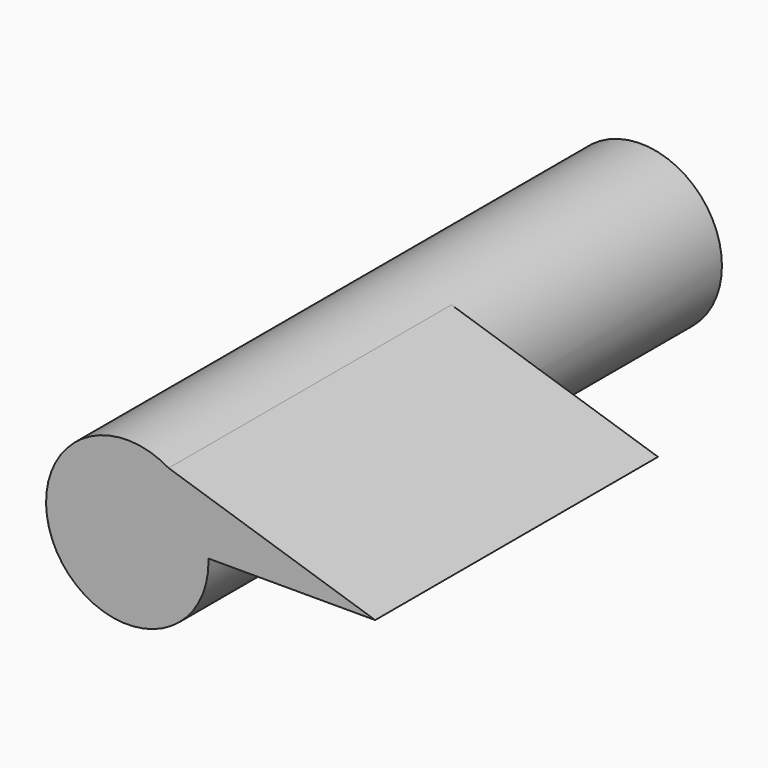
from build123d import *

# Parameters (mm, degrees)
F0_R     = 14.8676194835
F1_DEPTH = 63.81162256
F2_DEPTH = 53.6982640624
F4_DEPTH = 64.7173374891


with BuildPart() as f1:
    # F0 (on Front) → F1 (new body)
    with BuildSketch(Plane.XZ):
        with Locations((-0.3426838666, -0.586660404)):
            Circle(F0_R)
    extrude(amount=F1_DEPTH)

    # F2 (add): a face of the model
    f2_faces = [f1.faces().sort_by_distance(p)[0] for p in [
        (-0.3426838666, 0, -0.586660404),
    ]]
    extrude(f2_faces, amount=F2_DEPTH)

    # F3 (on face) → F4 (join)
    with BuildSketch(Plane.XZ.offset(63.81162256)):
        with BuildLine():
            ThreePointArc((7.2291272221, 12.2084084096), (12.4249878258, 7.0312572026), (14.5133566111, 0))
            Line((14.5133566111, 0), (45.0522339435, 0))
            Line((45.0522339435, 0), (7.2291272221, 12.2084084096))
        make_face()
    extrude(amount=-F4_DEPTH)


solid = f1.part
